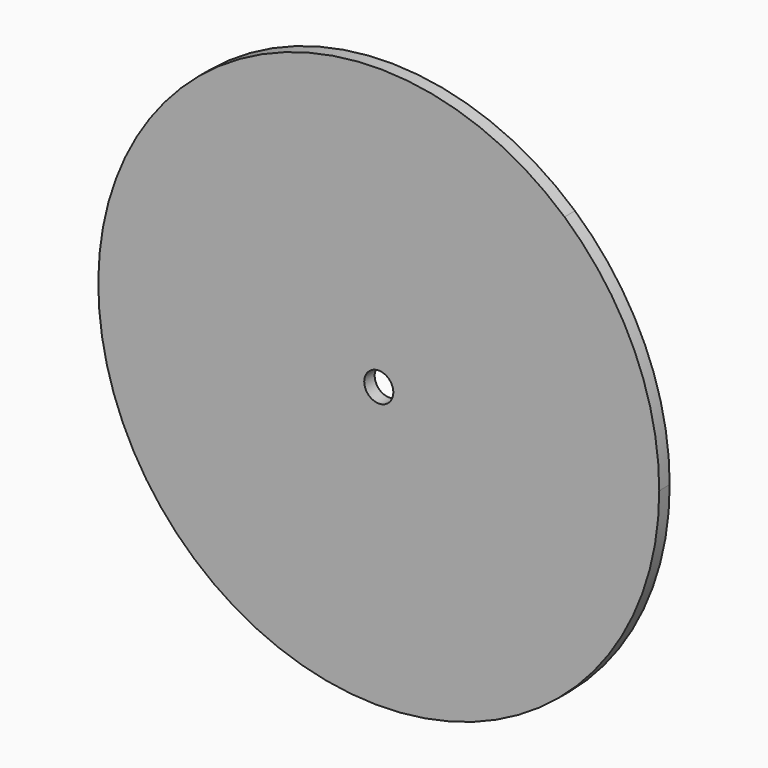
from build123d import *

# Parameters (mm, degrees)
F1_DEPTH = 3.556
F2_D     = 7.9248


with BuildPart() as f1:
    # F0 (on Front) → F1 (new body)
    with BuildSketch(Plane.XZ):
        with BuildLine():
            ThreePointArc((49.052849, -58.590001), (69.236021, -32.331775), (76.413155, 0))
            ThreePointArc((76.413155, 0), (69.662719, 31.401845), (50.604095, 57.255531))
            Line((50.604095, 57.255531), (0.166721, -0.151271))
            Line((0.166721, -0.151271), (49.052849, -58.590001))
        make_face()
        with BuildLine():
            Line((0.166721, -0.151271), (50.604095, 57.255531))
            ThreePointArc((50.604095, 57.255531), (1.053942, 76.405886), (-49.005576, 58.629547))
            Line((-49.005576, 58.629547), (0.166721, -0.151271))
        make_face()
        with BuildLine():
            ThreePointArc((-50.265902, -57.552666), (-0.798054, -76.408988), (49.052849, -58.590001))
            Line((49.052849, -58.590001), (0.166721, -0.151271))
            Line((0.166721, -0.151271), (-50.265902, -57.552666))
        make_face()
        with BuildLine():
            Line((0.166721, -0.151271), (-49.005576, 58.629547))
            ThreePointArc((-49.005576, 58.629547), (-76.40866, 0.828868), (-50.265902, -57.552666))
            Line((-50.265902, -57.552666), (0.166721, -0.151271))
        make_face()
    extrude(amount=F1_DEPTH)

    # F2 (through all)
    with Locations(Plane(origin=(0, 0, 0), x_dir=(1, 0, 0), z_dir=(0, 1, 0))):
        with Locations((0, 0)):
            Hole(F2_D / 2)


solid = f1.part
